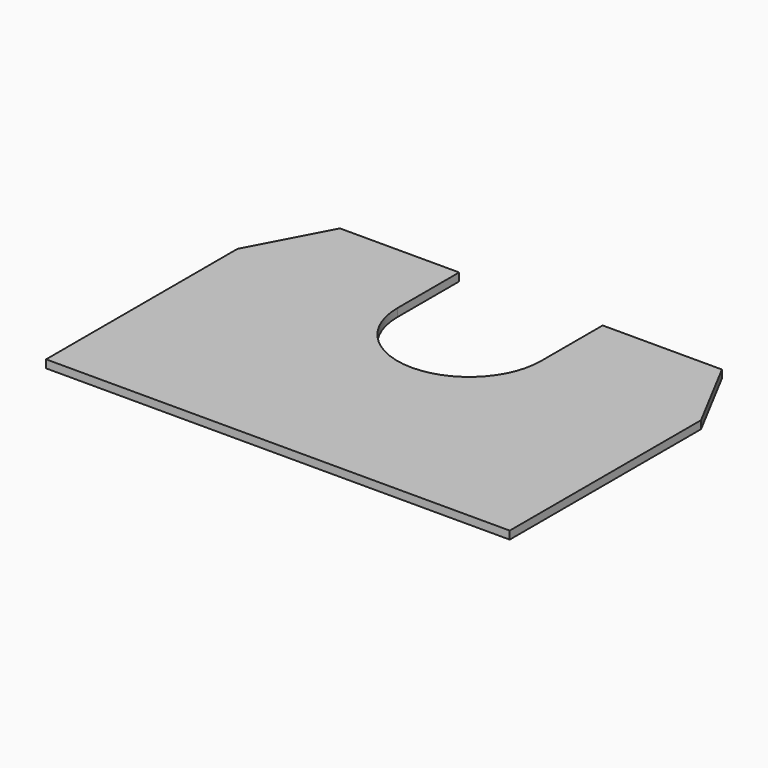
from build123d import *

# Parameters (mm, degrees)
F1_DEPTH = 0.5


with BuildPart() as f1:
    # F0 (on Top) → F1 (new body)
    with BuildSketch(Plane.XY):
        with BuildLine():
            ThreePointArc((4.5, 0), (0, -4.5), (-4.5, 0))
            Line((-4.5, 0), (-4.5, 4.834927))
            Line((-4.5, 4.834927), (-11.980261, 4.834927))
            Line((-11.980261, 4.834927), (-14.539381, 0))
            Line((-14.539381, 0), (-14.539381, -15))
            Line((-14.539381, -15), (0, -15))
            Line((0, -15), (14.539381, -15))
            Line((14.539381, -15), (14.539381, 0))
            Line((14.539381, 0), (11.980261, 4.834927))
            Line((11.980261, 4.834927), (4.5, 4.834927))
            Line((4.5, 4.834927), (4.5, 0))
        make_face()
    extrude(amount=F1_DEPTH)


solid = f1.part
